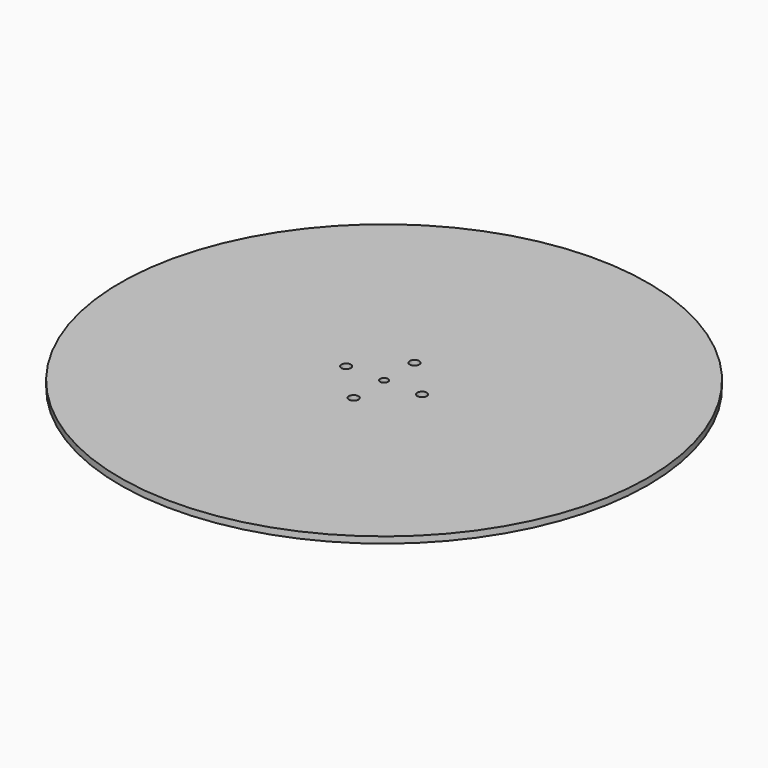
from build123d import *

# Parameters (mm, degrees)
F0_R     = 165
F0_R_2   = 3
F0_R_3   = 2.5
F1_DEPTH = 4


with BuildPart() as f1:
    # F0 (on Top) → F1 (new body)
    with BuildSketch(Plane.XY):
        with Locations((140.095845, 209.353372)):
            Circle(F0_R)
        with Locations((140.095845, 185.586029)):
            Circle(F0_R_2, mode=Mode.SUBTRACT)
        with Locations((116.328501, 209.353372)):
            Circle(F0_R_2, mode=Mode.SUBTRACT)
        with Locations((140.095845, 209.353372)):
            Circle(F0_R_3, mode=Mode.SUBTRACT)
        with Locations((163.863189, 209.353372)):
            Circle(F0_R_2, mode=Mode.SUBTRACT)
        with Locations((140.095845, 233.120716)):
            Circle(F0_R_2, mode=Mode.SUBTRACT)
    extrude(amount=F1_DEPTH)


solid = f1.part
